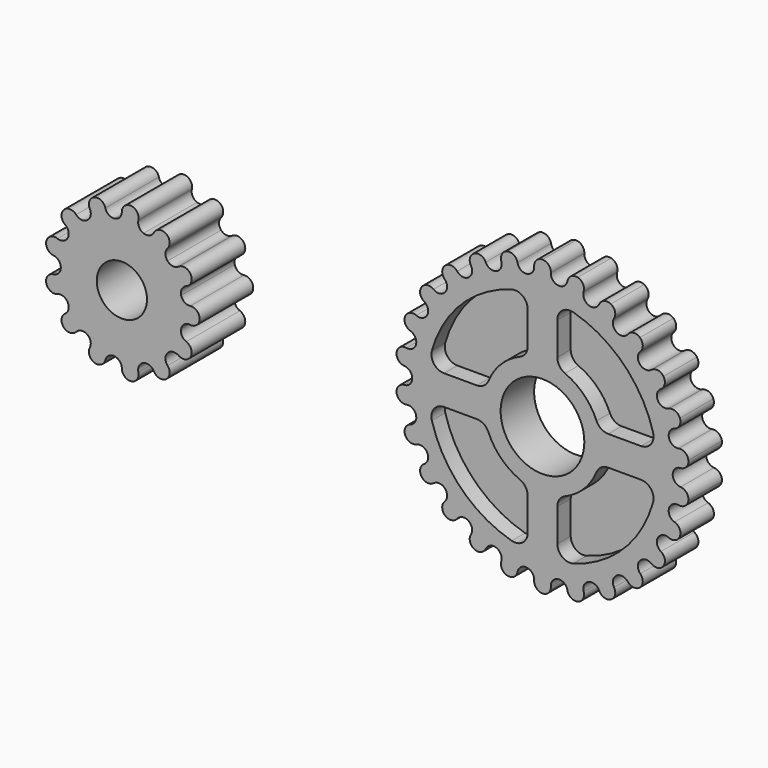
from build123d import *

# Parameters (mm, degrees)
F0_R     = 10
F1_DEPTH = 10
F0_R_2   = 6
F2_DEPTH = 16
F4_DEPTH = 4


with BuildPart() as f1:
    # F0 (on Front) → F1 (new body)
    with BuildSketch(Plane.XZ):
        with BuildLine():
            ThreePointArc((1.996351, 33.003618), (1.456282, 34.49523), (0, 35.124375))
            ThreePointArc((0, 35.124375), (-1.456282, 34.49523), (-1.996351, 33.003618))
            ThreePointArc((-1.996351, 33.003618), (-3.751629, 30.897443), (-5.959942, 32.522351))
            ThreePointArc((-5.959942, 32.522351), (-6.841284, 33.841372), (-8.405813, 34.103725))
            ThreePointArc((-8.405813, 34.103725), (-9.669214, 33.14435), (-9.836624, 31.566835))
            ThreePointArc((-9.836624, 31.566835), (-11.036856, 29.101796), (-13.569865, 30.151003))
            ThreePointArc((-13.569865, 30.151003), (-14.741259, 31.220777), (-16.323111, 31.10109))
            ThreePointArc((-16.323111, 31.10109), (-17.320206, 29.867241), (-17.105227, 28.295502))
            ThreePointArc((-17.105227, 28.295502), (-17.68066, 25.614859), (-20.391157, 26.027389))
            ThreePointArc((-20.391157, 26.027389), (-21.784526, 26.785744), (-23.291769, 26.290972))
            ThreePointArc((-23.291769, 26.290972), (-23.964611, 24.854357), (-23.379737, 23.379737))
            ThreePointArc((-23.379737, 23.379737), (-23.296929, 20.639278), (-26.027389, 20.391157))
            ThreePointArc((-26.027389, 20.391157), (-27.561755, 20.794021), (-28.906794, 19.952919))
            ThreePointArc((-28.906794, 19.952919), (-29.21628, 18.397028), (-28.295502, 17.105227))
            ThreePointArc((-28.295502, 17.105227), (-27.559266, 14.464218), (-30.151003, 13.569865))
            ThreePointArc((-30.151003, 13.569865), (-31.737196, 13.593824), (-32.841861, 12.455275))
            ThreePointArc((-32.841861, 12.455275), (-32.770005, 10.87053), (-31.566835, 9.836624))
            ThreePointArc((-31.566835, 9.836624), (-30.219957, 7.448551), (-32.522351, 5.959942))
            ThreePointArc((-32.522351, 5.959942), (-34.068186, 5.603604), (-34.868279, 4.233776))
            ThreePointArc((-34.868279, 4.233776), (-34.419256, 2.712277), (-33.003618, 1.996351))
            ThreePointArc((-33.003618, 1.996351), (-31.124375, 0), (-33.003618, -1.996351))
            ThreePointArc((-33.003618, -1.996351), (-34.419256, -2.712277), (-34.868279, -4.233776))
            ThreePointArc((-34.868279, -4.233776), (-34.068186, -5.603604), (-32.522351, -5.959942))
            ThreePointArc((-32.522351, -5.959942), (-30.219957, -7.448551), (-31.566835, -9.836624))
            ThreePointArc((-31.566835, -9.836624), (-32.770005, -10.87053), (-32.841861, -12.455275))
            ThreePointArc((-32.841861, -12.455275), (-31.737196, -13.593824), (-30.151003, -13.569865))
            ThreePointArc((-30.151003, -13.569865), (-27.559266, -14.464218), (-28.295502, -17.105227))
            ThreePointArc((-28.295502, -17.105227), (-29.21628, -18.397028), (-28.906794, -19.952919))
            ThreePointArc((-28.906794, -19.952919), (-27.561755, -20.794021), (-26.027389, -20.391157))
            ThreePointArc((-26.027389, -20.391157), (-23.296929, -20.639278), (-23.379737, -23.379737))
            ThreePointArc((-23.379737, -23.379737), (-23.964611, -24.854357), (-23.291769, -26.290972))
            ThreePointArc((-23.291769, -26.290972), (-21.784526, -26.785744), (-20.391157, -26.027389))
            ThreePointArc((-20.391157, -26.027389), (-17.68066, -25.614859), (-17.105227, -28.295502))
            ThreePointArc((-17.105227, -28.295502), (-17.320206, -29.867241), (-16.323111, -31.10109))
            ThreePointArc((-16.323111, -31.10109), (-14.741259, -31.220777), (-13.569865, -30.151003))
            ThreePointArc((-13.569865, -30.151003), (-11.036856, -29.101796), (-9.836624, -31.566835))
            ThreePointArc((-9.836624, -31.566835), (-9.669214, -33.14435), (-8.405813, -34.103725))
            ThreePointArc((-8.405813, -34.103725), (-6.841284, -33.841372), (-5.959942, -32.522351))
            ThreePointArc((-5.959942, -32.522351), (-3.751629, -30.897443), (-1.996351, -33.003618))
            ThreePointArc((-1.996351, -33.003618), (-1.456282, -34.49523), (0, -35.124375))
            ThreePointArc((0, -35.124375), (1.456282, -34.49523), (1.996351, -33.003618))
            ThreePointArc((1.996351, -33.003618), (3.751629, -30.897443), (5.959942, -32.522351))
            ThreePointArc((5.959942, -32.522351), (6.841284, -33.841372), (8.405813, -34.103725))
            ThreePointArc((8.405813, -34.103725), (9.669214, -33.14435), (9.836624, -31.566835))
            ThreePointArc((9.836624, -31.566835), (11.036856, -29.101796), (13.569865, -30.151003))
            ThreePointArc((13.569865, -30.151003), (14.741259, -31.220777), (16.323111, -31.10109))
            ThreePointArc((16.323111, -31.10109), (17.320206, -29.867241), (17.105227, -28.295502))
            ThreePointArc((17.105227, -28.295502), (17.68066, -25.614859), (20.391157, -26.027389))
            ThreePointArc((20.391157, -26.027389), (21.784526, -26.785744), (23.291769, -26.290972))
            ThreePointArc((23.291769, -26.290972), (23.964611, -24.854357), (23.379737, -23.379737))
            ThreePointArc((23.379737, -23.379737), (23.296929, -20.639278), (26.027389, -20.391157))
            ThreePointArc((26.027389, -20.391157), (27.561755, -20.794021), (28.906794, -19.952919))
            ThreePointArc((28.906794, -19.952919), (29.21628, -18.397028), (28.295502, -17.105227))
            ThreePointArc((28.295502, -17.105227), (27.559266, -14.464218), (30.151003, -13.569865))
            ThreePointArc((30.151003, -13.569865), (31.737196, -13.593824), (32.841861, -12.455275))
            ThreePointArc((32.841861, -12.455275), (32.770005, -10.87053), (31.566835, -9.836624))
            ThreePointArc((31.566835, -9.836624), (30.219957, -7.448551), (32.522351, -5.959942))
            ThreePointArc((32.522351, -5.959942), (34.068186, -5.603604), (34.868279, -4.233776))
            ThreePointArc((34.868279, -4.233776), (34.419256, -2.712277), (33.003618, -1.996351))
            ThreePointArc((33.003618, -1.996351), (31.124375, 0), (33.003618, 1.996351))
            ThreePointArc((33.003618, 1.996351), (34.419256, 2.712277), (34.868279, 4.233776))
            ThreePointArc((34.868279, 4.233776), (34.068186, 5.603604), (32.522351, 5.959942))
            ThreePointArc((32.522351, 5.959942), (30.219957, 7.448551), (31.566835, 9.836624))
            ThreePointArc((31.566835, 9.836624), (32.770005, 10.87053), (32.841861, 12.455275))
            ThreePointArc((32.841861, 12.455275), (31.737196, 13.593824), (30.151003, 13.569865))
            ThreePointArc((30.151003, 13.569865), (27.559266, 14.464218), (28.295502, 17.105227))
            ThreePointArc((28.295502, 17.105227), (29.21628, 18.397028), (28.906794, 19.952919))
            ThreePointArc((28.906794, 19.952919), (27.561755, 20.794021), (26.027389, 20.391157))
            ThreePointArc((26.027389, 20.391157), (23.296929, 20.639278), (23.379737, 23.379737))
            ThreePointArc((23.379737, 23.379737), (23.964611, 24.854357), (23.291769, 26.290972))
            ThreePointArc((23.291769, 26.290972), (21.784526, 26.785744), (20.391157, 26.027389))
            ThreePointArc((20.391157, 26.027389), (17.68066, 25.614859), (17.105227, 28.295502))
            ThreePointArc((17.105227, 28.295502), (17.320206, 29.867241), (16.323111, 31.10109))
            ThreePointArc((16.323111, 31.10109), (14.741259, 31.220777), (13.569865, 30.151003))
            ThreePointArc((13.569865, 30.151003), (11.036856, 29.101796), (9.836624, 31.566835))
            ThreePointArc((9.836624, 31.566835), (9.669214, 33.14435), (8.405813, 34.103725))
            ThreePointArc((8.405813, 34.103725), (6.841284, 33.841372), (5.959942, 32.522351))
            ThreePointArc((5.959942, 32.522351), (3.751629, 30.897443), (1.996351, 33.003618))
        make_face()
        Circle(F0_R, mode=Mode.SUBTRACT)
    extrude(amount=F1_DEPTH)

    # F3 (on face) → F4 (cut)
    with BuildSketch(Plane.XZ.offset(10)):
        with BuildLine():
            Line((3.544004, 23.544004), (3.544004, 15.689997))
            ThreePointArc((3.544004, 15.689997), (4.047559, 14.026338), (5.38918, 12.921174))
            ThreePointArc((5.38918, 12.921174), (9.899495, 9.899495), (12.921174, 5.38918))
            ThreePointArc((12.921174, 5.38918), (14.026338, 4.047559), (15.689997, 3.544004))
            Line((15.689997, 3.544004), (23.544004, 3.544004))
            ThreePointArc((23.544004, 3.544004), (25.932535, 4.728813), (26.434431, 7.347392))
            ThreePointArc((26.434431, 7.347392), (19.400558, 19.400558), (7.347392, 26.434431))
            ThreePointArc((7.347392, 26.434431), (4.728813, 25.932535), (3.544004, 23.544004))
        make_face()
        with BuildLine():
            ThreePointArc((-7.347392, 26.434431), (-19.400558, 19.400558), (-26.434431, 7.347392))
            ThreePointArc((-26.434431, 7.347392), (-25.932535, 4.728813), (-23.544004, 3.544004))
            Line((-23.544004, 3.544004), (-15.689997, 3.544004))
            ThreePointArc((-15.689997, 3.544004), (-14.026338, 4.047559), (-12.921174, 5.38918))
            ThreePointArc((-12.921174, 5.38918), (-9.899495, 9.899495), (-5.38918, 12.921174))
            ThreePointArc((-5.38918, 12.921174), (-4.047559, 14.026338), (-3.544004, 15.689997))
            Line((-3.544004, 15.689997), (-3.544004, 23.544004))
            ThreePointArc((-3.544004, 23.544004), (-4.728813, 25.932535), (-7.347392, 26.434431))
        make_face()
        with BuildLine():
            ThreePointArc((-26.434431, -7.347392), (-19.400558, -19.400558), (-7.347392, -26.434431))
            ThreePointArc((-7.347392, -26.434431), (-4.728813, -25.932535), (-3.544004, -23.544004))
            Line((-3.544004, -23.544004), (-3.544004, -15.689997))
            ThreePointArc((-3.544004, -15.689997), (-4.047559, -14.026338), (-5.38918, -12.921174))
            ThreePointArc((-5.38918, -12.921174), (-9.899495, -9.899495), (-12.921174, -5.38918))
            ThreePointArc((-12.921174, -5.38918), (-14.026338, -4.047559), (-15.689997, -3.544004))
            Line((-15.689997, -3.544004), (-23.544004, -3.544004))
            ThreePointArc((-23.544004, -3.544004), (-25.932535, -4.728813), (-26.434431, -7.347392))
        make_face()
        with BuildLine():
            ThreePointArc((7.347392, -26.434431), (19.400558, -19.400558), (26.434431, -7.347392))
            ThreePointArc((26.434431, -7.347392), (25.932535, -4.728813), (23.544004, -3.544004))
            Line((23.544004, -3.544004), (15.689997, -3.544004))
            ThreePointArc((15.689997, -3.544004), (14.026338, -4.047559), (12.921174, -5.38918))
            ThreePointArc((12.921174, -5.38918), (9.899495, -9.899495), (5.38918, -12.921174))
            ThreePointArc((5.38918, -12.921174), (4.047559, -14.026338), (3.544004, -15.689997))
            Line((3.544004, -15.689997), (3.544004, -23.544004))
            ThreePointArc((3.544004, -23.544004), (4.728813, -25.932535), (7.347392, -26.434431))
        make_face()
    extrude(amount=-F4_DEPTH, mode=Mode.SUBTRACT)


with BuildPart() as f2:
    # F0 (on Front) → F2 (new body)
    with BuildSketch(Plane.XZ):
        with BuildLine():
            ThreePointArc((-81.560263, -3.492204), (-80.754509, -2.324868), (-79.377306, -1.985418))
            ThreePointArc((-79.377306, -1.985418), (-77.136232, 0), (-79.377306, 1.985418))
            ThreePointArc((-79.377306, 1.985418), (-80.754509, 2.324868), (-81.560263, 3.492204))
            ThreePointArc((-81.560263, 3.492204), (-81.389291, 4.900282), (-80.327589, 5.840868))
            ThreePointArc((-80.327589, 5.840868), (-79.265887, 8.640347), (-82.172928, 9.356868))
            ThreePointArc((-82.172928, 9.356868), (-83.550131, 9.017418), (-84.806079, 9.676591))
            ThreePointArc((-84.806079, 9.676591), (-85.309058, 11.002836), (-84.806079, 12.329081))
            ThreePointArc((-84.806079, 12.329081), (-85.166971, 15.301294), (-88.074013, 14.584773))
            ThreePointArc((-88.074013, 14.584773), (-89.135715, 13.644187), (-90.554134, 13.644187))
            ThreePointArc((-90.554134, 13.644187), (-91.615837, 14.584773), (-91.786808, 15.992851))
            ThreePointArc((-91.786808, 15.992851), (-93.487619, 18.4569), (-95.728692, 16.471482))
            ThreePointArc((-95.728692, 16.471482), (-96.23167, 15.145237), (-97.487619, 14.486064))
            ThreePointArc((-97.487619, 14.486064), (-98.864821, 14.825514), (-99.670576, 15.992851))
            ThreePointArc((-99.670576, 15.992851), (-102.321669, 17.384252), (-103.383371, 14.584773))
            ThreePointArc((-103.383371, 14.584773), (-103.2124, 13.176695), (-104.018154, 12.009359))
            ThreePointArc((-104.018154, 12.009359), (-105.395357, 11.669909), (-106.651305, 12.329081))
            ThreePointArc((-106.651305, 12.329081), (-109.645348, 12.329081), (-109.284456, 9.356868))
            ThreePointArc((-109.284456, 9.356868), (-108.478702, 8.189532), (-108.649673, 6.781454))
            ThreePointArc((-108.649673, 6.781454), (-109.711375, 5.840868), (-111.129795, 5.840868))
            ThreePointArc((-111.129795, 5.840868), (-113.780888, 4.449467), (-112.080078, 1.985418))
            ThreePointArc((-112.080078, 1.985418), (-110.82413, 1.326245), (-110.321152, 0))
            ThreePointArc((-110.321152, 0), (-110.82413, -1.326245), (-112.080078, -1.985418))
            ThreePointArc((-112.080078, -1.985418), (-113.780888, -4.449467), (-111.129795, -5.840868))
            ThreePointArc((-111.129795, -5.840868), (-109.711375, -5.840868), (-108.649673, -6.781454))
            ThreePointArc((-108.649673, -6.781454), (-108.478702, -8.189532), (-109.284456, -9.356868))
            ThreePointArc((-109.284456, -9.356868), (-109.645348, -12.329081), (-106.651305, -12.329081))
            ThreePointArc((-106.651305, -12.329081), (-105.395357, -11.669909), (-104.018154, -12.009359))
            ThreePointArc((-104.018154, -12.009359), (-103.2124, -13.176695), (-103.383371, -14.584773))
            ThreePointArc((-103.383371, -14.584773), (-102.321669, -17.384252), (-99.670576, -15.992851))
            ThreePointArc((-99.670576, -15.992851), (-98.864821, -14.825514), (-97.487619, -14.486064))
            ThreePointArc((-97.487619, -14.486064), (-96.23167, -15.145237), (-95.728692, -16.471482))
            ThreePointArc((-95.728692, -16.471482), (-93.487619, -18.4569), (-91.786808, -15.992851))
            ThreePointArc((-91.786808, -15.992851), (-91.615837, -14.584773), (-90.554134, -13.644187))
            ThreePointArc((-90.554134, -13.644187), (-89.135715, -13.644187), (-88.074013, -14.584773))
            ThreePointArc((-88.074013, -14.584773), (-85.166971, -15.301294), (-84.806079, -12.329081))
            ThreePointArc((-84.806079, -12.329081), (-85.309058, -11.002836), (-84.806079, -9.676591))
            ThreePointArc((-84.806079, -9.676591), (-83.550131, -9.017418), (-82.172928, -9.356868))
            ThreePointArc((-82.172928, -9.356868), (-79.265887, -8.640347), (-80.327589, -5.840868))
            ThreePointArc((-80.327589, -5.840868), (-81.389291, -4.900282), (-81.560263, -3.492204))
        make_face()
        with Locations((-95.728692, 0)):
            Circle(F0_R_2, mode=Mode.SUBTRACT)
    extrude(amount=F2_DEPTH)


solid = Compound([f1.part, f2.part])
